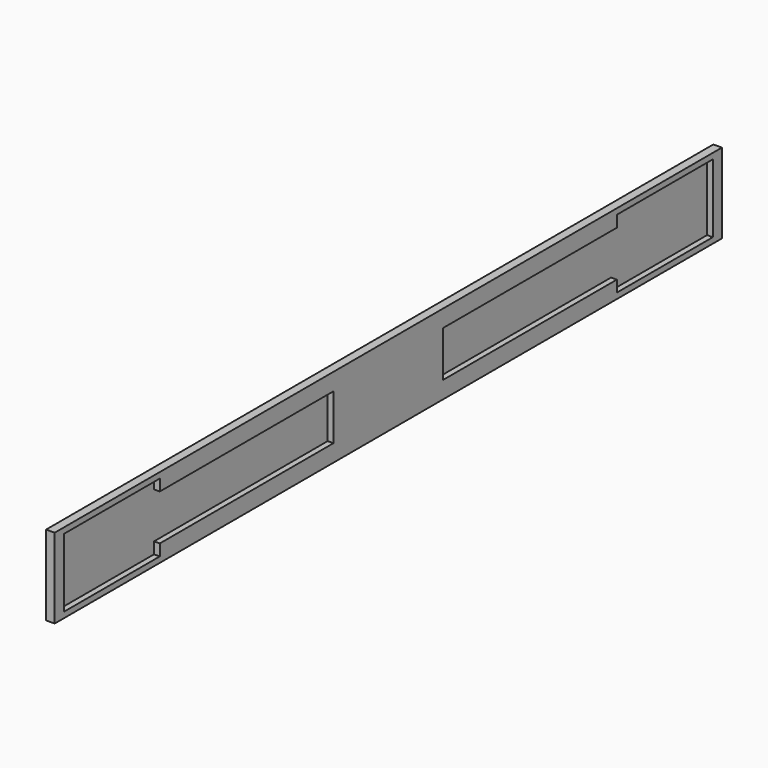
from build123d import *

# Parameters (mm, degrees)
F0_W     = 19.05
F0_H     = 177.8
F1_DEPTH = 927.1
F3_DEPTH = 12.7


with BuildPart() as f1:
    # F0 (on Front) → F1 (new body, symmetric)
    with BuildSketch(Plane.XZ):
        with Locations((9.525, 88.9)):
            Rectangle(F0_W, F0_H)
    extrude(amount=F1_DEPTH, both=True)

    # F2 (on face) → F3 (cut)
    with BuildSketch(Plane.YZ.offset(19.05)):
        Polygon((-901.7, 165.1), (-901.7, 12.7), (-635, 12.7), (-635, 38.1), (-152.4, 38.1), (-152.4, 139.7), (-635, 139.7), (-635, 165.1), align=None)
        Polygon((901.7, 12.7), (901.7, 165.1), (635, 165.1), (635, 139.7), (152.4, 139.7), (152.4, 38.1), (635, 38.1), (635, 12.7), align=None)
    extrude(amount=-F3_DEPTH, mode=Mode.SUBTRACT)


solid = f1.part
